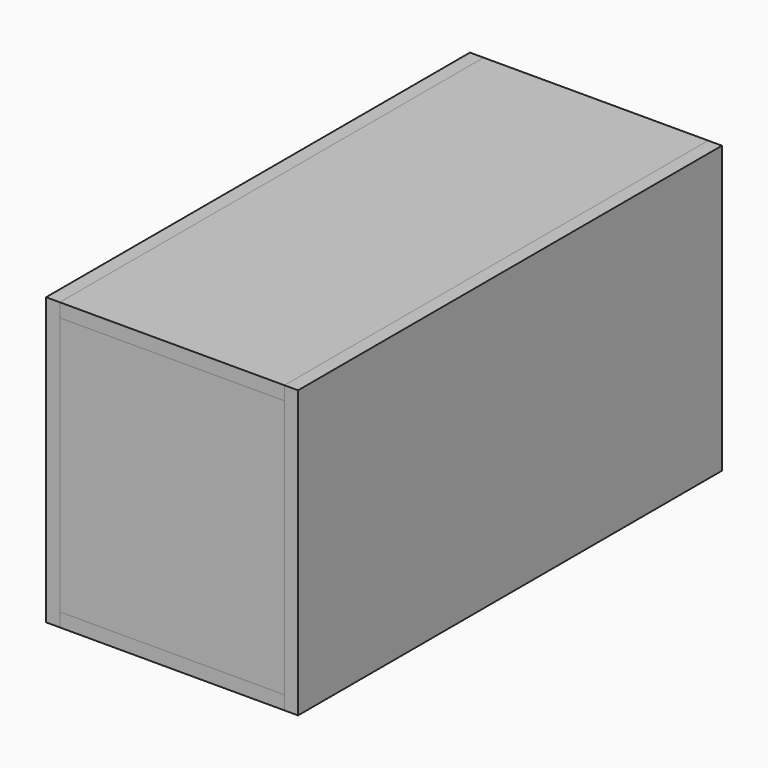
from build123d import *

# Parameters (mm, degrees)
F0_W      = 295
F0_H      = 696
F1_DEPTH  = 18
F2_W      = 295
F2_H      = 18
F3_DEPTH  = 340
F4_W      = 288
F4_H      = 18
F5_DEPTH  = 100
F6_W      = 18
F6_H      = 185
F7_DEPTH  = 100
F8_W      = 696
F8_H      = 376
F9_DEPTH  = 18
F10_W     = 295
F10_H     = 696
F11_DEPTH = 18
F12_W     = 696
F12_H     = 376
F12_R     = 39
F12_R_2   = 70
F12_R_3   = 140
F13_DEPTH = 18
F14_W     = 18
F14_H     = 100
F15_DEPTH = 295
F14_H_2   = 96.6019383799
F16_W     = 288
F16_H     = 203
F17_DEPTH = 18


with BuildPart() as f1:
    # F0 (on Top) → F1 (new body)
    with BuildSketch(Plane.XY):
        with Locations((-172.1087222384, 7.5448482484)):
            Rectangle(F0_W, F0_H)
    extrude(amount=F1_DEPTH)


with BuildPart() as f3:
    # F2 (on face) → F3 (new body)
    with BuildSketch(Plane.XY.offset(18)):
        with Locations((-172.1087222384, -331.4551517516)):
            Rectangle(F2_W, F2_H)
    extrude(amount=F3_DEPTH)


with BuildPart() as f3b:
    # F2 (on face) → F3, piece 2 (new body)
    with BuildSketch(Plane.XY.offset(18)):
        with Locations((-172.1087222384, 346.5448482484)):
            Rectangle(F2_W, F2_H)
    extrude(amount=F3_DEPTH)


with BuildPart() as f5:
    # F4 (on face) → F5 (new body)
    with BuildSketch(Plane(origin=(-319.6087222384, 0, 0), x_dir=(0, -1, 0), z_dir=(-1, 0, 0))):
        with Locations((-193.5448482484, 212)):
            Rectangle(F4_W, F4_H)
    extrude(amount=-F5_DEPTH)


with BuildPart() as f7:
    # F6 (on face) → F7 (new body)
    with BuildSketch(Plane(origin=(-319.6087222384, 0, 0), x_dir=(0, -1, 0), z_dir=(-1, 0, 0))):
        with Locations((-58.5448482484, 110.5)):
            Rectangle(F6_W, F6_H)
    extrude(amount=-F7_DEPTH)


with BuildPart() as f9:
    # F8 (on face) → F9 (new body)
    with BuildSketch(Plane.YZ.offset(-24.6087222384)):
        with Locations((7.5448482484, 188)):
            Rectangle(F8_W, F8_H)
    extrude(amount=F9_DEPTH)


with BuildPart() as f11:
    # F10 (on face) → F11 (new body)
    with BuildSketch(Plane.XY.offset(358)):
        with Locations((-172.1087222384, 7.5448482484)):
            Rectangle(F10_W, F10_H)
    extrude(amount=F11_DEPTH)


with BuildPart() as f13:
    # F12 (on face) → F13 (new body)
    with BuildSketch(Plane(origin=(-319.6087222384, 0, 0), x_dir=(0, -1, 0), z_dir=(-1, 0, 0))):
        with Locations((-7.5448482484, 188)):
            Rectangle(F12_W, F12_H)
        with Locations((-287.5448482484, 118)):
            Circle(F12_R, mode=Mode.SUBTRACT)
        with Locations((-147.5448482484, 118)):
            Circle(F12_R_2, mode=Mode.SUBTRACT)
        with Locations((127.4551517516, 193)):
            Circle(F12_R_3, mode=Mode.SUBTRACT)
    extrude(amount=F13_DEPTH)


with BuildPart() as f15:
    # F14 (on face) → F15 (new body, through all)
    with BuildSketch(Plane.YZ.offset(-319.6087222384)):
        with Locations((-293.4551517516, 193)):
            Rectangle(F14_W, F14_H)
    extrude(amount=F15_DEPTH)


with BuildPart() as f15b:
    # F14 (on face) → F15, piece 2 (new body, through all)
    with BuildSketch(Plane.YZ.offset(-319.6087222384)):
        with Locations((30.5448482484, 194.69903081)):
            Rectangle(F14_W, F14_H_2)
    extrude(amount=F15_DEPTH)


with BuildPart() as f17:
    # F16 (on face) → F17 (new body)
    with BuildSketch(Plane.YZ.offset(-219.6087222384)):
        with Locations((193.5448482484, 119.5)):
            Rectangle(F16_W, F16_H)
    extrude(amount=F17_DEPTH)


solid = Compound([f1.part, f3.part, f3b.part, f5.part, f7.part, f9.part, f11.part, f13.part, f15.part, f15b.part, f17.part])
